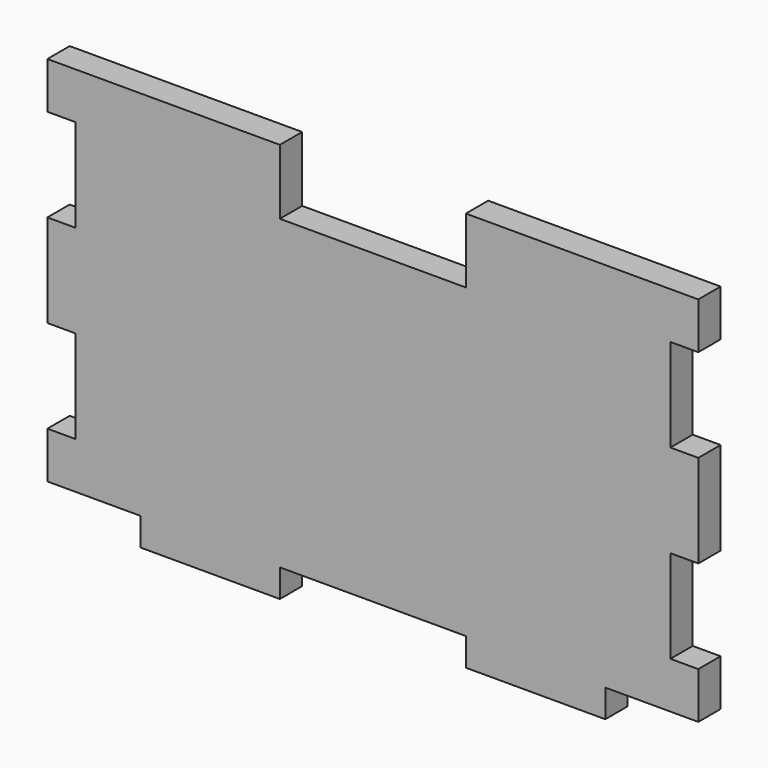
from build123d import *

# Parameters (mm, degrees)
F1_DEPTH = 3


with BuildPart() as f1:
    # F0 (on Front) → F1 (new body)
    with BuildSketch(Plane.XZ):
        Polygon((25, -20), (35, -20), (35, -15), (32, -15), (32, -5), (35, -5), (35, 5), (32, 5), (32, 15), (35, 15), (35, 20), (10, 20), (10, 13), (-10, 13), (-10, 20), (-35, 20), (-35, 15), (-32, 15), (-32, 5), (-35, 5), (-35, -5), (-32, -5), (-32, -15), (-35, -15), (-35, -20), (-25, -20), (-25, -23), (-10, -23), (-10, -20), (10, -20), (10, -23), (25, -23), align=None)
    extrude(amount=F1_DEPTH)


solid = f1.part
